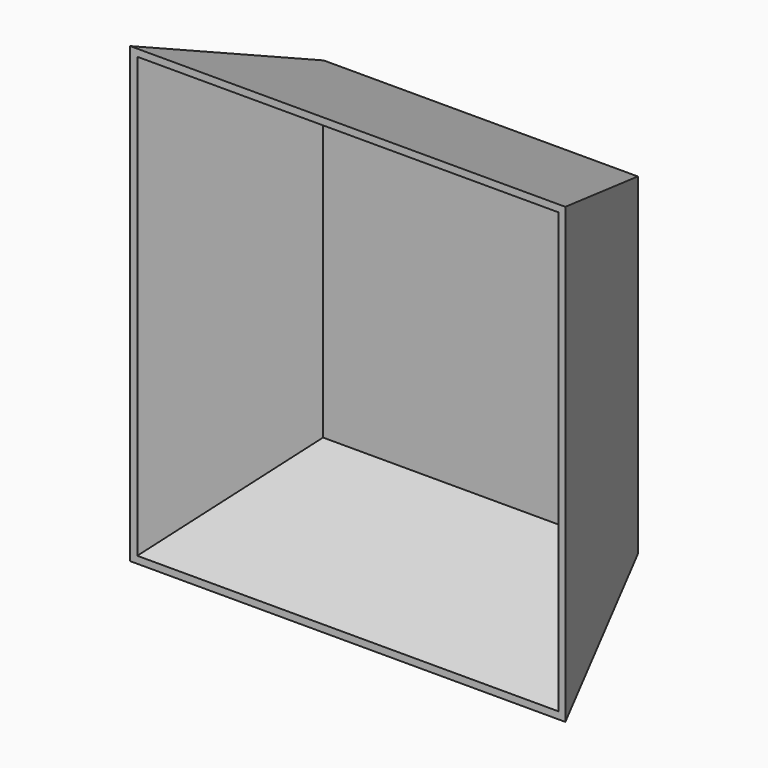
from build123d import *

# Parameters (mm, degrees)
F0_W     = 119.9976056814
F0_H     = 126.9957870245
F1_DEPTH = 63.5
F1_TAPER = -20
F2_T     = -2.54


with BuildPart() as f1:
    # F0 (on Front) → F1 (new body)
    with BuildSketch(Plane.XZ):
        Rectangle(F0_W, F0_H)
    extrude(amount=F1_DEPTH, taper=F1_TAPER)

    # F2
    f2_openings = [f1.faces().sort_by_distance(p)[0] for p in [
        (0, -63.5, 0),
    ]]
    offset(amount=F2_T, openings=f2_openings)


solid = f1.part
